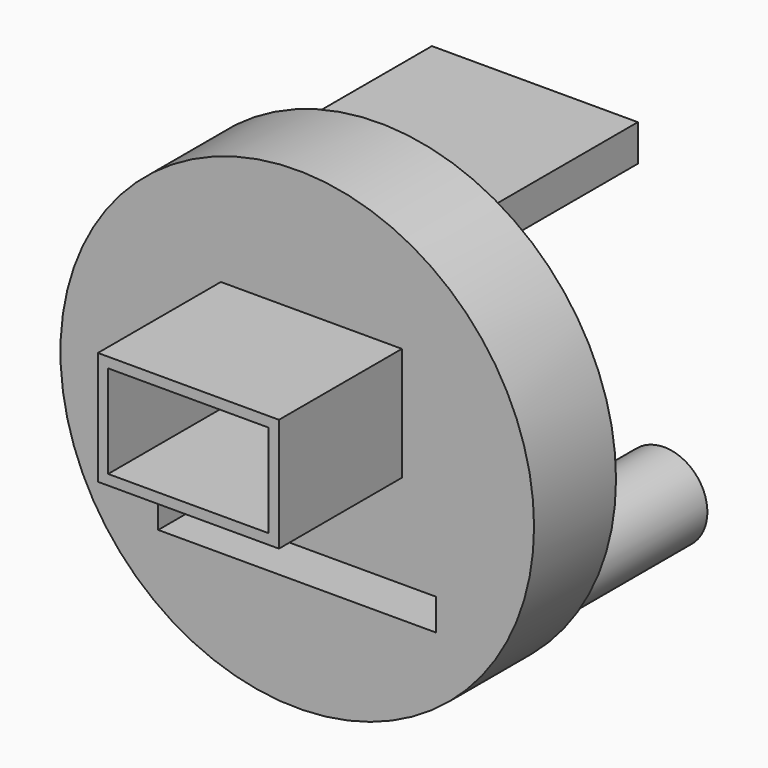
from build123d import *

# Parameters (mm, degrees)
F0_R      = 57.7881585004
F1_DEPTH  = 12.5
F2_W      = 44.1803280264
F2_H      = 27.6844277978
F4_DEPTH  = 37.5
F3_W      = 67.8
F3_H      = 7.7
F5_DEPTH  = 12.5
F6_T      = -2.5
F7_W      = 50.2489116043
F7_H      = 8.9359693229
F8_DEPTH  = 50
F10_R     = 10.5252112218
F11_DEPTH = 50
F9_R      = 8.9119309546
F12_DEPTH = 50


with BuildPart() as f1:
    # F0 (on Front) → F1 (new body, symmetric)
    with BuildSketch(Plane.XZ):
        with Locations((2.5819686707, 0)):
            Circle(F0_R)
    extrude(amount=F1_DEPTH, both=True)

    # F2 (on face) → F4 (join, symmetric)
    with BuildSketch(Plane.XZ.offset(12.5)):
        with Locations((6.0245888308, 13.8422138989)):
            Rectangle(F2_W, F2_H)
    extrude(amount=F4_DEPTH, both=True)

    # F3 (on face) → F5 (cut, symmetric)
    with BuildSketch(Plane.XZ.offset(12.5)):
        with Locations((2.5539135873, -26.7082657456)):
            Rectangle(F3_W, F3_H)
    extrude(amount=F5_DEPTH, both=True, mode=Mode.SUBTRACT)

    # F6
    f6_openings = [f1.faces().sort_by_distance(p)[0] for p in [
        (6.024589, -50, 13.842214),
    ]]
    offset(amount=F6_T, openings=f6_openings, kind=Kind.INTERSECTION)

    # F7 (on face) → F8 (join)
    with BuildSketch(Plane(origin=(0, 12.5, 0), x_dir=(-1, 0, 0), z_dir=(0, 1, 0))):
        with Locations((-0.5627823994, 40.6393650919)):
            Rectangle(F7_W, F7_H)
    extrude(amount=F8_DEPTH)

    # F10 (on face) → F11 (join)
    with BuildSketch(Plane(origin=(0, 12.5, 0), x_dir=(-1, 0, 0), z_dir=(0, 1, 0))):
        with Locations((-32.1311503649, -33.1352464855)):
            Circle(F10_R)
    extrude(amount=F11_DEPTH)

    # F9 (on face) → F12 (join)
    with BuildSketch(Plane(origin=(0, 12.5, 0), x_dir=(-1, 0, 0), z_dir=(0, 1, 0))):
        with Locations((28.9754085243, -35.4303270578)):
            Circle(F9_R)
    extrude(amount=F12_DEPTH)


solid = f1.part
